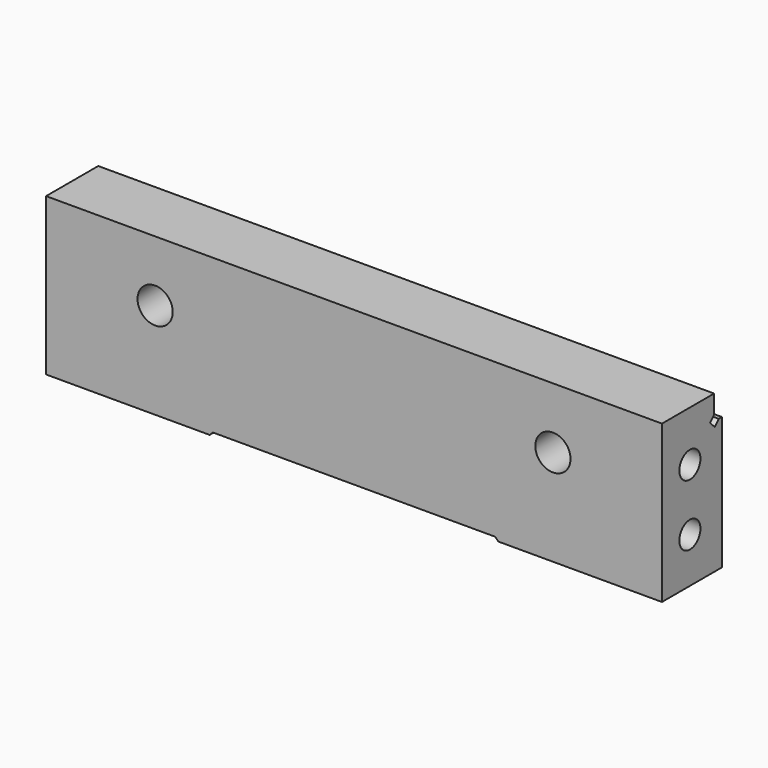
from build123d import *

# Parameters (mm, degrees)
F1_DEPTH      = 76.2
F1_DEPTH_BACK = 76.2
F3_D          = 6.5278
F3_DEPTH      = 15.875
F3_TIP        = 1.9611489744
F5_D          = 6.5278
F5_DEPTH      = 15.875
F5_TIP        = 1.9611489744
F7_DEPTH      = 18.543
F8_R          = 4.3561
F9_DEPTH      = 18.543


with BuildPart() as f1:
    # F0 (on Right) → F1 (new body, two sides)
    with BuildSketch(Plane.YZ) as f1_sk:
        Polygon((0, 38.862), (0, 0), (18.542, 0), (18.542, 32.766), (17.5658409794, 32.766), (16.3086051224, 31.5087641431), (14.8717641431, 32.9456051224), (16.129, 34.2028409794), (16.129, 38.862), align=None)
    extrude(amount=F1_DEPTH)
    extrude(f1_sk.sketch, amount=-F1_DEPTH_BACK)

    # F3
    with Locations(Plane.YZ.offset(76.2)):
        with Locations((8.636, 11.176), (8.636, 26.416)):
            Hole(F3_D / 2, depth=F3_DEPTH)
            with Locations((0, 0, -(F3_DEPTH + F3_TIP / 2))):  # 118° drill point
                Cone(0, F3_D / 2, F3_TIP, mode=Mode.SUBTRACT)

    # F5
    with Locations(Plane(origin=(-76.2, 0, 0), x_dir=(0, -1, 0), z_dir=(-1, 0, 0))):
        with Locations((-8.636, 26.416), (-8.636, 11.176)):
            Hole(F5_D / 2, depth=F5_DEPTH)
            with Locations((0, 0, -(F5_DEPTH + F5_TIP / 2))):  # 118° drill point
                Cone(0, F5_D / 2, F5_TIP, mode=Mode.SUBTRACT)

    # F6 (on face) → F7 (cut, through all)
    with BuildSketch(Plane.XZ):
        Polygon((-34.93135, 0.79375), (-35.7251, 0), (35.7251, 0), (34.93135, 0.79375), align=None)
    extrude(amount=-F7_DEPTH, mode=Mode.SUBTRACT)

    # F8 (on face) → F9 (cut, through all)
    with BuildSketch(Plane(origin=(0, 18.542, 0), x_dir=(-1, 0, 0), z_dir=(0, 1, 0))):
        with Locations((-49.2125, 23.7998)):
            Circle(F8_R)
        with Locations((49.2125, 23.7998)):
            Circle(F8_R)
    extrude(amount=-F9_DEPTH, mode=Mode.SUBTRACT)


solid = f1.part
